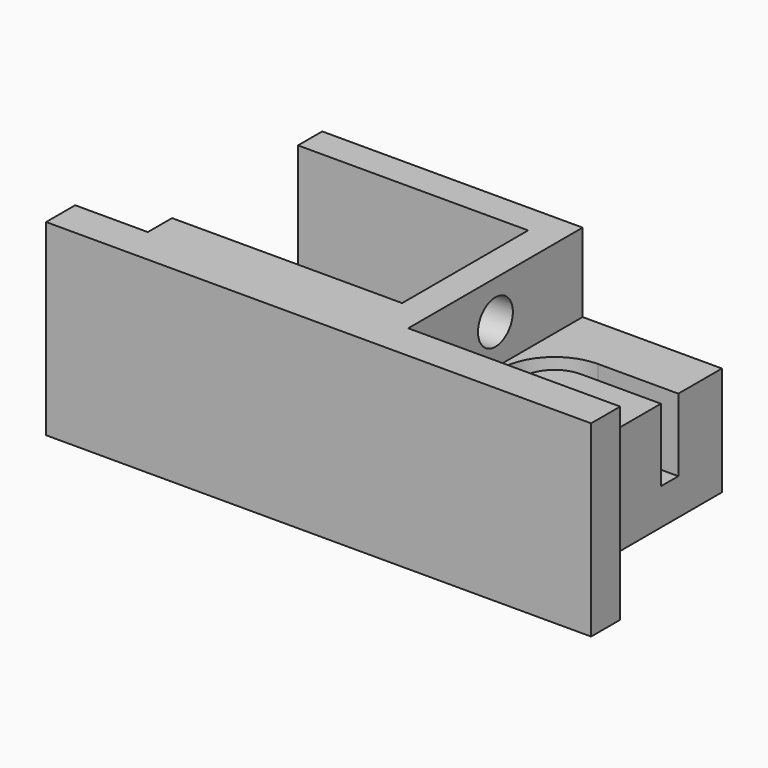
from build123d import *

# Parameters (mm, degrees)
PAD_DEPTH       = 15.5
SKETCH001_W     = 11.5
SKETCH001_H     = 18
POCKET_DEPTH    = 6.5
SKETCH002_W     = 28.698795
SKETCH002_H     = 13
POCKET001_DEPTH = 12.5
SKETCH003_R     = 1.8
POCKET002_DEPTH = 2.5
POCKET003_DEPTH = 6


with BuildPart() as part:
    # Sketch → Pad (new body)
    with BuildSketch(Plane.XY):
        Polygon((-16.5, 3), (-22.5, 3), (-22.5, 0), (22.5, 0), (22.5, 3), (16.5, 3), (16.5, 21), (-16.5, 21), align=None)
    extrude(amount=PAD_DEPTH)

    # Sketch001 → Pocket (cut)
    with BuildSketch(Plane.XY.offset(15.5)):
        with Locations((10.75, 12)):
            Rectangle(SKETCH001_W, SKETCH001_H)
    extrude(amount=-POCKET_DEPTH, mode=Mode.SUBTRACT)

    # Sketch002 → Pocket001 (cut)
    with BuildSketch(Plane.XY.offset(15.5)):
        with Locations((-11.8493975, 12)):
            Rectangle(SKETCH002_W, SKETCH002_H)
    extrude(amount=-POCKET001_DEPTH, mode=Mode.SUBTRACT)

    # Sketch003 → Pocket002 (cut)
    with BuildSketch(Plane(origin=(2.5, 0, 0), x_dir=(0, -1, 0), z_dir=(-1, 0, 0))):
        with Locations((-12, 12.3)):
            Circle(SKETCH003_R)
    extrude(amount=-POCKET002_DEPTH, mode=Mode.SUBTRACT)

    # Sketch004 → Pocket003 (cut)
    with BuildSketch(Plane.XY.offset(9)):
        with BuildLine():
            ThreePointArc((9.8823500905, 16.5019904992), (5.3803595914, 12), (9.8823500905, 7.4980095008))
            Line((9.8823500905, 7.4980095008), (17.636722355, 7.4980095008))
            Line((17.636722355, 9.2980095008), (17.636722355, 7.4980095008))
            Line((9.8823500905, 9.2980095008), (17.636722355, 9.2980095008))
            ThreePointArc((9.8823500905, 14.7019904992), (7.1803595914, 12), (9.8823500905, 9.2980095008))
            Line((9.8823500905, 14.7019904992), (17.636722355, 14.7019904992))
            Line((17.636722355, 16.5019904992), (17.636722355, 14.7019904992))
            Line((9.8823500905, 16.5019904992), (17.636722355, 16.5019904992))
        make_face()
    extrude(amount=-POCKET003_DEPTH, mode=Mode.SUBTRACT)


solid = part.part
